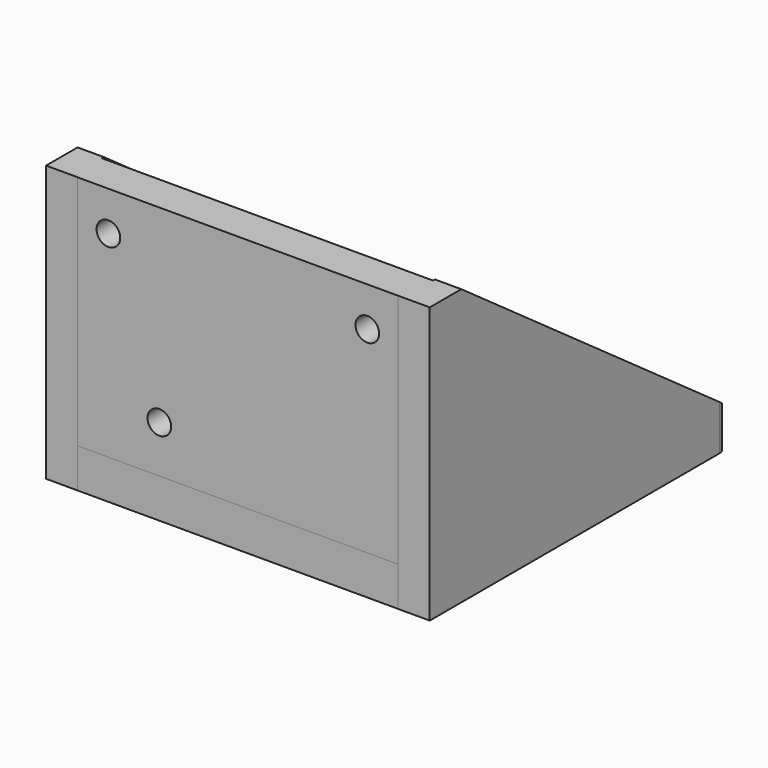
from build123d import *

# Parameters (mm, degrees)
SKETCH_W        = 40.7
SKETCH_H        = 47
PAD_DEPTH       = 5
SKETCH001_R     = 18.5
POCKET_DEPTH    = 5.001
SKETCH002_R     = 1.5
POCKET001_DEPTH = 5.001
SKETCH003_W     = 40.7
SKETCH003_H     = 5
PAD001_DEPTH    = 30
SKETCH004_R     = 1.5
POCKET002_DEPTH = 5
PAD002_DEPTH    = 4
PAD003_DEPTH    = 4
SKETCH007_W     = 42
SKETCH007_H     = 44.033375
POCKET003_DEPTH = 32
FILLET_R        = 1


with BuildPart() as part:
    # Sketch → Pad (new body)
    with BuildSketch(Plane.XY):
        with Locations((0, 3.341403)):
            Rectangle(SKETCH_W, SKETCH_H)
    extrude(amount=PAD_DEPTH)

    # Sketch001 → Pocket (cut, through all)
    with BuildSketch(Plane.XY.offset(5)):
        with Locations((0, 6.2129)):
            Circle(SKETCH001_R)
    extrude(amount=-POCKET_DEPTH, mode=Mode.SUBTRACT)

    # Sketch002 → Pocket001 (cut, through all)
    with BuildSketch(Plane.XY.offset(5)):
        with Locations((-16.1, 22.6911)):
            Circle(SKETCH002_R)
        with Locations((16.1, 22.6911)):
            Circle(SKETCH002_R)
        with Locations((16.1, -9.5089)):
            Circle(SKETCH002_R)
        with Locations((-16.1, -9.5089)):
            Circle(SKETCH002_R)
    extrude(amount=-POCKET001_DEPTH, mode=Mode.SUBTRACT)

    # Sketch003 → Pad001 (new body)
    with BuildSketch(Plane.XY.offset(5)):
        with Locations((0, -17.674198)):
            Rectangle(SKETCH003_W, SKETCH003_H)
    extrude(amount=PAD001_DEPTH)

    # Sketch004 → Pocket002 (cut)
    with BuildSketch(Plane(origin=(0, -15.174198, 0), x_dir=(-1, 0, 0), z_dir=(0, 1, 0))):
        with Locations((9.963108, 10.997544)):
            Circle(SKETCH004_R)
        with Locations((-16.42986, 29.9825)):
            Circle(SKETCH004_R)
        with Locations((16.42986, 29.9825)):
            Circle(SKETCH004_R)
    extrude(amount=-POCKET002_DEPTH, mode=Mode.SUBTRACT)

    # Sketch005 → Pad002 (new body)
    with BuildSketch(Plane.YZ.offset(20.35)):
        Polygon((-20.1666, 0), (26.8334, 0), (26.8334, 5), (-15.1666, 35), (-20.1666, 35), align=None)
    extrude(amount=PAD002_DEPTH)

    # Sketch006 → Pad003 (new body)
    with BuildSketch(Plane(origin=(-20.35, 0, 0), x_dir=(0, -1, 0), z_dir=(-1, 0, 0))):
        Polygon((-26.8425, 0), (20.1575, 0), (20.1575, 35), (15.1575, 35), (-26.8425, 5), align=None)
    extrude(amount=PAD003_DEPTH)

    # Sketch007 → Pocket003 (cut)
    with BuildSketch(Plane.XY.offset(5)):
        with Locations((0, 6.547751)):
            Rectangle(SKETCH007_W, SKETCH007_H)
    extrude(amount=POCKET003_DEPTH, mode=Mode.SUBTRACT)

    # Fillet
    fillet_edges = [part.edges().sort_by_distance(p)[0] for p in [
        (-24.35, 26.8425, 2.5),
        (24.35, 26.8334, 2.5),
    ]]
    fillet(fillet_edges, radius=FILLET_R)


solid = part.part
